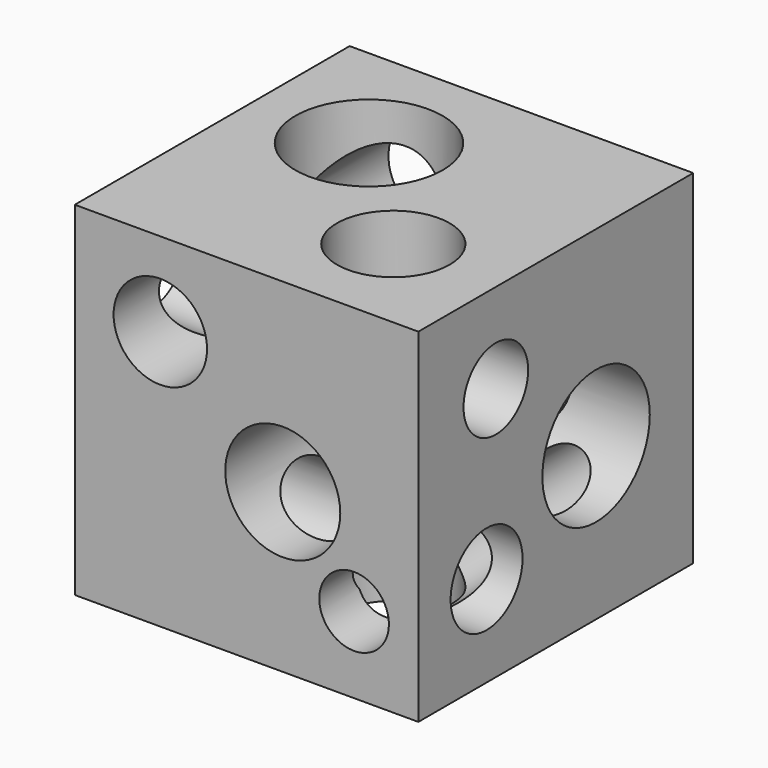
from build123d import *

# Parameters (mm, degrees)
F0_W     = 20
F0_H     = 20
F1_DEPTH = 20
F2_R     = 2.719794
F2_R_2   = 3.348263
F2_R_3   = 2.027215
F3_DEPTH = 20.001
F4_R     = 2.350225
F4_R_2   = 3.907695
F4_R_3   = 2.615921
F5_DEPTH = 20.001
F6_R     = 4.285518
F6_R_2   = 3.277927
F7_DEPTH = 20.001


with BuildPart() as f1:
    # F0 (on Front) → F1 (new body)
    with BuildSketch(Plane.XZ):
        with Locations((13.297466, -11.097708)):
            Rectangle(F0_W, F0_H)
    extrude(amount=F1_DEPTH)

    # F2 (on face) → F3 (cut, through all)
    with BuildSketch(Plane.XZ.offset(20)):
        with Locations((8.27669, -5.988226)):
            Circle(F2_R)
        with Locations((15.40355, -11.880511)):
            Circle(F2_R_2)
        with Locations((19.556209, -16.650457)):
            Circle(F2_R_3)
    extrude(amount=-F3_DEPTH, mode=Mode.SUBTRACT)

    # F4 (on face) → F5 (cut, through all)
    with BuildSketch(Plane.YZ.offset(23.297466)):
        with Locations((-14.363098, -6.313733)):
            Circle(F4_R)
        with Locations((-7.067886, -12.20602)):
            Circle(F4_R_2)
        with Locations((-15.036502, -15.797509)):
            Circle(F4_R_3)
    extrude(amount=-F5_DEPTH, mode=Mode.SUBTRACT)

    # F6 (on face) → F7 (cut, through all)
    with BuildSketch(Plane.XY.offset(-1.097708)):
        with Locations((9.944474, -6.899535)):
            Circle(F6_R)
        with Locations((17.015219, -13.970278)):
            Circle(F6_R_2)
    extrude(amount=-F7_DEPTH, mode=Mode.SUBTRACT)


solid = f1.part
